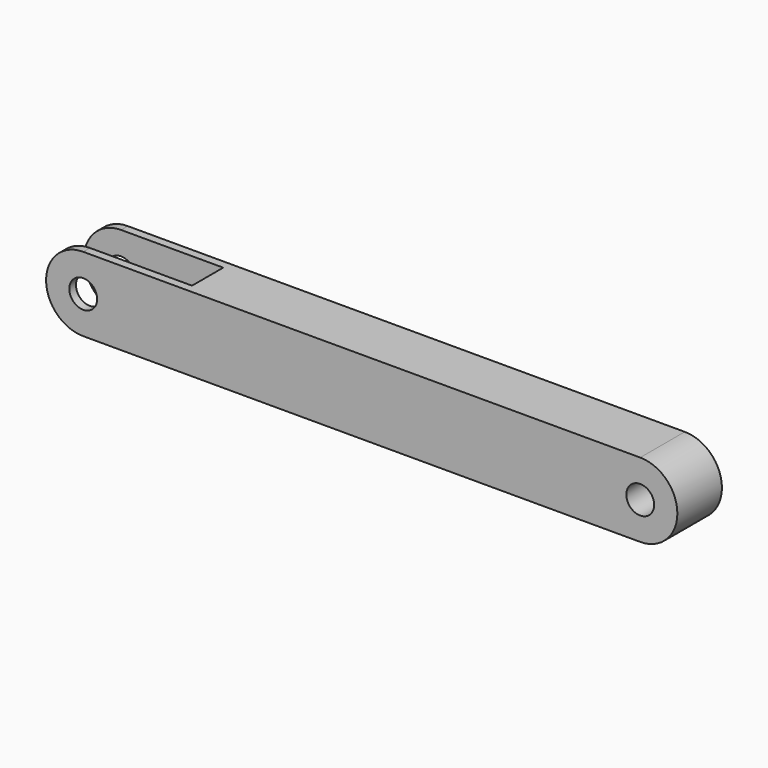
from build123d import *

# Parameters (mm, degrees)
F0_R     = 1.5
F1_DEPTH = 3
F3_W     = 4.2
F3_H     = 8
F4_DEPTH = 15


with BuildPart() as f1:
    # F0 (on Front) → F1 (new body, symmetric)
    with BuildSketch(Plane.XZ):
        with BuildLine():
            ThreePointArc((30, -4), (34, 0), (30, 4))
            Line((30, 4), (-30, 4))
            ThreePointArc((-30, 4), (-34, 0), (-30, -4))
            Line((-30, -4), (30, -4))
        make_face()
        with Locations((-30, 0)):
            Circle(F0_R, mode=Mode.SUBTRACT)
        with Locations((30, 0)):
            Circle(F0_R, mode=Mode.SUBTRACT)
    extrude(amount=F1_DEPTH, both=True)

    # F3 (on offset) → F4 (cut)
    with BuildSketch(Plane.YZ.offset(-34)):
        Rectangle(F3_W, F3_H)
    extrude(amount=F4_DEPTH, mode=Mode.SUBTRACT)


solid = f1.part
